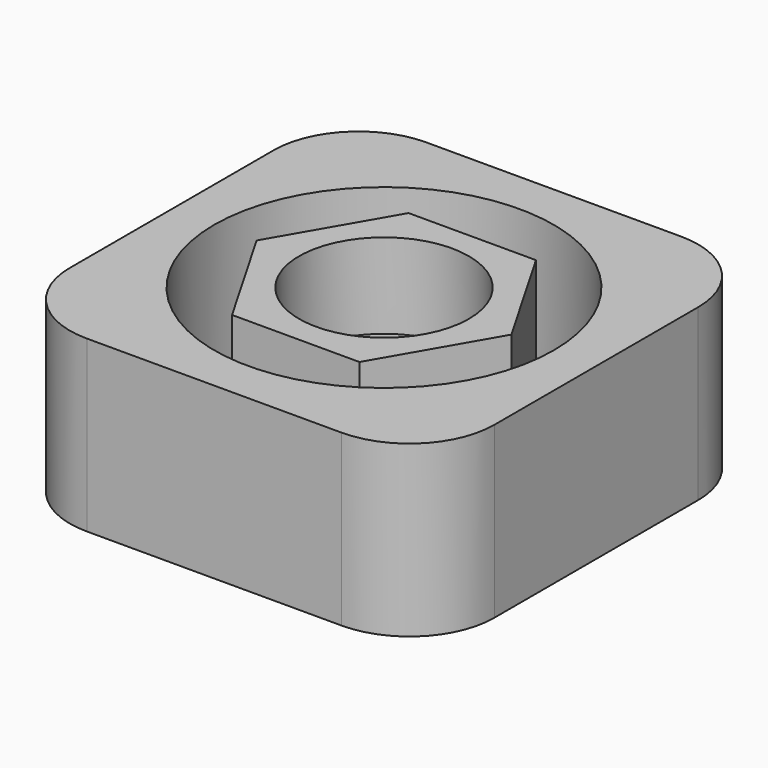
from build123d import *

# Parameters (mm, degrees)
F0_R     = 25.4
F1_DEPTH = 25.4
F2_R     = 12.7
F3_DEPTH = 12.7


with BuildPart() as f1:
    # F0 (on Top) → F1 (new body)
    with BuildSketch(Plane.XY):
        with BuildLine():
            ThreePointArc((31.75, 19.05), (28.030256, 28.030256), (19.05, 31.75))
            Line((19.05, 31.75), (-19.05, 31.75))
            ThreePointArc((-19.05, 31.75), (-28.030256, 28.030256), (-31.75, 19.05))
            Line((-31.75, 19.05), (-31.75, -19.05))
            ThreePointArc((-31.75, -19.05), (-28.030256, -28.030256), (-19.05, -31.75))
            Line((-19.05, -31.75), (19.05, -31.75))
            ThreePointArc((19.05, -31.75), (28.030256, -28.030256), (31.75, -19.05))
            Line((31.75, -19.05), (31.75, 19.05))
        make_face()
        Circle(F0_R, mode=Mode.SUBTRACT)
        Polygon((-9.525, -16.497784), (9.525, -16.497784), (19.05, 0), (9.525, 16.497784), (-9.525, 16.497784), (-19.05, 0), align=None)
    extrude(amount=F1_DEPTH)

    # F2 (on face) → F3 (cut)
    with BuildSketch(Plane.XY.offset(25.4)):
        Circle(F2_R)
    extrude(amount=-F3_DEPTH, mode=Mode.SUBTRACT)


solid = f1.part
